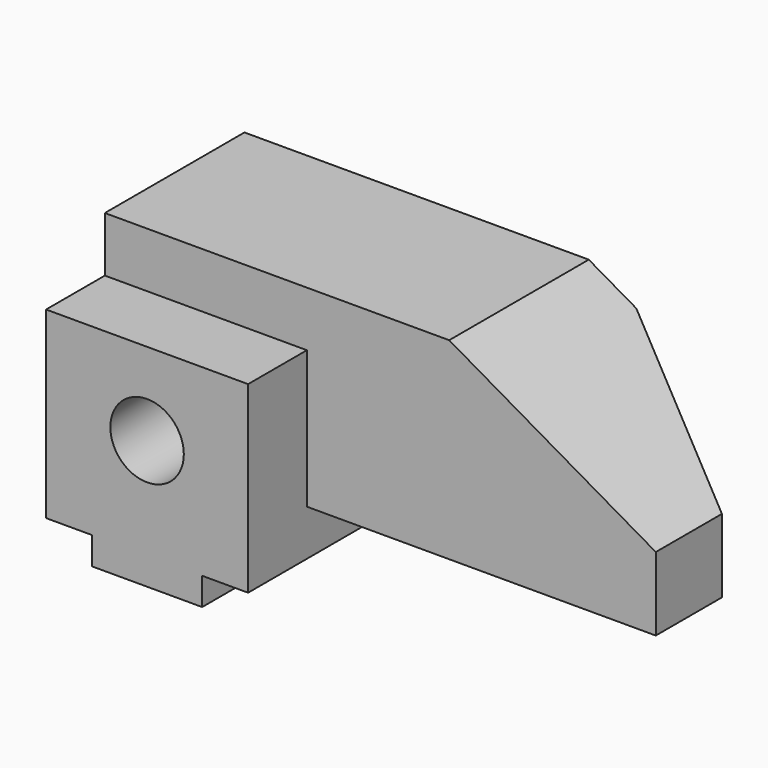
from build123d import *

# Parameters (mm, degrees)
F0_W      = 120
F0_H      = 58
F1_DEPTH  = 54
F2_W      = 10
F2_H      = 6
F3_DEPTH  = 54.001
F5_DEPTH  = 16
F6_R      = 8
F7_DEPTH  = 22
F8_W      = 44
F8_H      = 16
F9_DEPTH  = 12
F11_DEPTH = 58.001


with BuildPart() as f1:
    # F0 (on Front) → F1 (new body)
    with BuildSketch(Plane.XZ):
        with Locations((60, 29)):
            Rectangle(F0_W, F0_H)
    extrude(amount=F1_DEPTH)

    # F2 (on face) → F3 (cut, through all)
    with BuildSketch(Plane.XZ.offset(54)):
        Polygon((34, 6), (34, 0), (120, 0), (120, 16), (44, 16), (44, 6), align=None)
        Polygon((120, 58), (75, 58), (120, 32.019238), align=None)
        with Locations((5, 3)):
            Rectangle(F2_W, F2_H)
    extrude(amount=-F3_DEPTH, mode=Mode.SUBTRACT)

    # F4 (on face) → F5 (cut)
    with BuildSketch(Plane.XZ.offset(54)):
        Polygon((75, 58), (0, 58), (0, 46), (44, 46), (44, 16), (120, 16), (120, 32.019238), align=None)
    extrude(amount=-F5_DEPTH, mode=Mode.SUBTRACT)

    # F6 (on face) → F7 (cut)
    with BuildSketch(Plane.XZ.offset(54)):
        with Locations((22, 28)):
            Circle(F6_R)
    extrude(amount=-F7_DEPTH, mode=Mode.SUBTRACT)

    # F8 (on face) → F9 (cut)
    with BuildSketch(Plane(origin=(0, 0, 0), x_dir=(-1, 0, 0), z_dir=(0, 1, 0))):
        with Locations((-22, 8)):
            Rectangle(F8_W, F8_H)
    extrude(amount=-F9_DEPTH, mode=Mode.SUBTRACT)

    # F10 (on face) → F11 (cut, through all)
    with BuildSketch(Plane.XY.offset(58)):
        Polygon((85.358984, 0), (120, -20), (120, 0), align=None)
    extrude(amount=-F11_DEPTH, mode=Mode.SUBTRACT)


solid = f1.part
